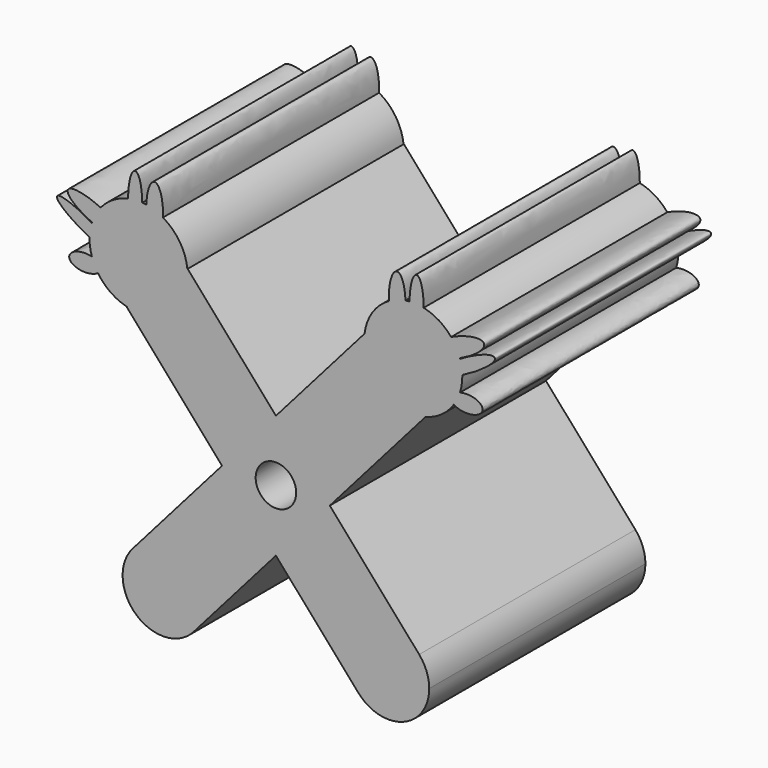
from build123d import *

# Parameters (mm, degrees)
F1_DEPTH = 25.4
F2_R     = 1.905
F3_DEPTH = 25.4


with BuildPart() as f1:
    # F0 (on Front) → F1 (new body)
    with BuildSketch(Plane.XZ):
        with BuildLine():
            Line((0, 5.7491731517), (-8.2944697503, 15.2146270099))
            Line((-8.2944697503, 15.2146270099), (-8.3231978396, 15.1894529114))
            ThreePointArc((-8.3231978396, 15.1894529114), (-8.3035295288, 14.94423904), (-8.2969671988, 14.6983251912))
            ThreePointArc((-8.2969671988, 14.6983251912), (-10.0583188378, 11.0733391142), (-13.9967146278, 10.2178145639))
            Line((-13.9967146278, 10.2178145639), (-14.0254427171, 10.1926404654))
            Line((-14.0254427171, 10.1926404654), (-5.0658413794, -0.0318459217))
            Line((-5.0658413794, -0.0318459217), (0, 5.7491731517))
        make_face()
        with BuildLine():
            Line((8.2944697503, 15.2146270099), (0, 5.7491731517))
            Line((0, 5.7491731517), (5.0658413794, -0.0318459217))
            Line((5.0658413794, -0.0318459217), (14.0254427171, 10.1926404654))
            Line((14.0254427171, 10.1926404654), (13.9967146278, 10.2178145639))
            ThreePointArc((13.9967146278, 10.2178145639), (9.8690430435, 11.2304739572), (8.3231978396, 15.1894529114))
            Line((8.3231978396, 15.1894529114), (8.2944697503, 15.2146270099))
        make_face()
        Polygon((5.0658413794, -0.0318459217), (0, 5.7491731517), (-5.0658413794, -0.0318459217), (0, -5.8128649951), align=None)
        with BuildLine():
            ThreePointArc((-8.2969671988, 14.6983251912), (-8.3035295288, 14.94423904), (-8.3231978396, 15.1894529114))
            Line((-8.3231978396, 15.1894529114), (-11.1599562337, 12.7036337377))
            Line((-11.1599562337, 12.7036337377), (-13.9967146278, 10.2178145639))
            ThreePointArc((-13.9967146278, 10.2178145639), (-10.0583188378, 11.0733391142), (-8.2969671988, 14.6983251912))
        make_face()
        with BuildLine():
            Line((-11.1599562337, 12.7036337377), (-8.3231978396, 15.1894529114))
            ThreePointArc((-8.3231978396, 15.1894529114), (-9.0496447277, 17.2231103335), (-10.6223940399, 18.7029573502))
            add(Edge.make_bspline(
                [(-11.397036872, 16.7108965981), (-10.7234744769, 16.7108965981), (-10.6223940399, 18.7029573502)],
                knots=[0, 0, 0, 1.4201588617, 1.4201588617, 1.4201588617], degree=2, weights=[1, 0.7583100979, 1]))
            add(Edge.make_bspline(
                [(-12.1777972418, 19.2510726344), (-12.2492001468, 16.7108965981), (-11.397036872, 16.7108965981)],
                knots=[4.6285004545, 4.6285004545, 4.6285004545, 6.2831853072, 6.2831853072, 6.2831853072], degree=2, weights=[1, 0.6768344815, 1]))
            ThreePointArc((-12.1777972418, 19.2510726344), (-12.3722941564, 19.2780280838), (-12.5677623507, 19.2966783129))
            add(Edge.make_bspline(
                [(-13.2275939538, 16.8863658989), (-12.568162614, 16.8863658989), (-12.5677623507, 19.2966783129)],
                knots=[0, 0, 0, 1.5701893442, 1.5701893442, 1.5701893442], degree=2, weights=[1, 0.7073213494, 1]))
            add(Edge.make_bspline(
                [(-13.8869238704, 19.2041002692), (-13.8621795895, 16.8863658989), (-13.2275939538, 16.8863658989)],
                knots=[4.751391684, 4.751391684, 4.751391684, 6.2831853072, 6.2831853072, 6.2831853072], degree=2, weights=[1, 0.7207609922, 1]))
            ThreePointArc((-13.8869238704, 19.2041002692), (-15.3105630335, 18.6337610065), (-16.4683955259, 17.6280476969))
            add(Edge.make_bspline(
                [(-14.3421338871, 15.7459191978), (-14.0127760713, 16.4781937118), (-16.4683955259, 17.6280476969)],
                knots=[0, 0, 0, 1.5192282947, 1.5192282947, 1.5192282947], degree=2, weights=[1, 0.7251017789, 1]))
            add(Edge.make_bspline(
                [(-17.2865569965, 16.1432249544), (-14.6876888139, 14.9776329939), (-14.3421338871, 15.7459191978)],
                knots=[4.7159730132, 4.7159730132, 4.7159730132, 6.2831853072, 6.2831853072, 6.2831853072], degree=2, weights=[1, 0.7083727921, 1]))
            ThreePointArc((-17.2865569965, 16.1432249544), (-17.2954576321, 16.1159676419), (-17.3041885923, 16.0886555067))
            add(Edge.make_bspline(
                [(-15.3071302921, 14.2545606941), (-15.039718366, 14.7264631696), (-17.3041885923, 16.0886555067)],
                knots=[0, 0, 0, 1.4437537951, 1.4437537951, 1.4437537951], degree=2, weights=[1, 0.7505668082, 1]))
            add(Edge.make_bspline(
                [(-17.5170477979, 14.8252919707), (-15.5370704354, 13.8487847646), (-15.3071302921, 14.2545606941)],
                knots=[4.9872193392, 4.9872193392, 4.9872193392, 6.2831853072, 6.2831853072, 6.2831853072], degree=2, weights=[1, 0.797302849, 1]))
            ThreePointArc((-17.5170477979, 14.8252919707), (-17.4737215217, 14.0551771502), (-17.3026249434, 13.303060162))
            add(Edge.make_bspline(
                [(-16.4475776255, 12.5877521932), (-16.4475776255, 13.0891369536), (-17.3026249434, 13.303060162)],
                knots=[0, 0, 0, 1.1299945247, 1.1299945247, 1.1299945247], degree=2, weights=[1, 0.8445900662, 1]))
            add(Edge.make_bspline(
                [(-16.7324533518, 12.1228282782), (-16.4475776255, 12.3307436247), (-16.4475776255, 12.5877521932)],
                knots=[5.6548075128, 5.6548075128, 5.6548075128, 6.2831853072, 6.2831853072, 6.2831853072], degree=2, weights=[1, 0.9510473591, 1]))
            ThreePointArc((-16.7324533518, 12.1228282782), (-15.542773625, 10.9144281004), (-13.9967146278, 10.2178145639))
            Line((-13.9967146278, 10.2178145639), (-11.1599562337, 12.7036337377))
        make_face()
        with BuildLine():
            Line((13.4674719425, -9.6195891799), (5.0658413794, -0.0318459217))
            Line((5.0658413794, -0.0318459217), (0, -5.8128649951))
            Line((0, -5.8128649951), (7.7364989756, -14.6415757244))
            ThreePointArc((7.7364989756, -14.6415757244), (8.0909921868, -9.2650959687), (13.4674719425, -9.6195891799))
        make_face()
        with BuildLine():
            Line((0, -5.8128649951), (-5.0658413794, -0.0318459217))
            Line((-5.0658413794, -0.0318459217), (-13.4674719425, -9.6195891799))
            ThreePointArc((-13.4674719425, -9.6195891799), (-9.2606062252, -8.5645199525), (-6.791985459, -12.1305824521))
            ThreePointArc((-6.791985459, -12.1305824521), (-7.0359229594, -13.471961686), (-7.7364989756, -14.6415757244))
            Line((-7.7364989756, -14.6415757244), (0, -5.8128649951))
        make_face()
        with BuildLine():
            add(Edge.make_bspline(
                [(-11.397036872, 16.7108965981), (-10.7234744769, 16.7108965981), (-10.6223940399, 18.7029573502)],
                knots=[0, 0, 0, 1.4201588617, 1.4201588617, 1.4201588617], degree=2, weights=[1, 0.7583100979, 1]))
            ThreePointArc((-10.6223940399, 18.7029573502), (-11.3753914419, 19.0471188394), (-12.1777972418, 19.2510726344))
            add(Edge.make_bspline(
                [(-12.1777972418, 19.2510726344), (-12.2492001468, 16.7108965981), (-11.397036872, 16.7108965981)],
                knots=[4.6285004545, 4.6285004545, 4.6285004545, 6.2831853072, 6.2831853072, 6.2831853072], degree=2, weights=[1, 0.6768344815, 1]))
        make_face()
        with BuildLine():
            ThreePointArc((-12.1777972418, 19.2510726344), (-11.3753914419, 19.0471188394), (-10.6223940399, 18.7029573502))
            add(Edge.make_bspline(
                [(-10.6223940399, 18.7029573502), (-10.5008219166, 21.0988616654), (-11.3053698951, 21.382379819), (-12.1099178736, 21.6658979726), (-12.1777972418, 19.2510726344)],
                knots=[1.4201588617, 1.4201588617, 1.4201588617, 3.0243296581, 3.0243296581, 4.6285004545, 4.6285004545, 4.6285004545], degree=2, weights=[1, 0.6952092224, 1, 0.6952092224, 1]))
        make_face()
        with BuildLine():
            ThreePointArc((14.411985459, -12.1305824521), (14.1680479586, -10.7892032183), (13.4674719425, -9.6195891799))
            Line((13.4674719425, -9.6195891799), (7.7364989756, -14.6415757244))
            ThreePointArc((7.7364989756, -14.6415757244), (11.9433646929, -15.6966449517), (14.411985459, -12.1305824521))
        make_face()
        with BuildLine():
            Line((7.7364989756, -14.6415757244), (13.4674719425, -9.6195891799))
            ThreePointArc((13.4674719425, -9.6195891799), (8.0909921868, -9.2650959687), (7.7364989756, -14.6415757244))
        make_face()
        with BuildLine():
            Line((13.9967146278, 10.2178145639), (8.3231978396, 15.1894529114))
            ThreePointArc((8.3231978396, 15.1894529114), (9.8690430435, 11.2304739572), (13.9967146278, 10.2178145639))
        make_face()
        with BuildLine():
            ThreePointArc((10.6223940399, 18.7029573502), (9.0496447277, 17.2231103335), (8.3231978396, 15.1894529114))
            Line((8.3231978396, 15.1894529114), (13.9967146278, 10.2178145639))
            ThreePointArc((13.9967146278, 10.2178145639), (15.542773625, 10.9144281004), (16.7324533518, 12.1228282782))
            add(Edge.make_bspline(
                [(16.4475776255, 12.5877521932), (16.4475776255, 12.3307436247), (16.7324533518, 12.1228282782)],
                knots=[0, 0, 0, 0.6283777944, 0.6283777944, 0.6283777944], degree=2, weights=[1, 0.9510473591, 1]))
            add(Edge.make_bspline(
                [(17.3026249434, 13.303060162), (16.4475776255, 13.0891369536), (16.4475776255, 12.5877521932)],
                knots=[5.1531907825, 5.1531907825, 5.1531907825, 6.2831853072, 6.2831853072, 6.2831853072], degree=2, weights=[1, 0.8445900662, 1]))
            ThreePointArc((17.3026249434, 13.303060162), (17.4644329232, 13.9923693638), (17.5187962168, 14.6983251912))
            ThreePointArc((17.5187962168, 14.6983251912), (17.5183590913, 14.7618145999), (17.5170477979, 14.8252919707))
            add(Edge.make_bspline(
                [(15.3071302921, 14.2545606941), (15.5370704354, 13.8487847646), (17.5170477979, 14.8252919707)],
                knots=[0, 0, 0, 1.295965968, 1.295965968, 1.295965968], degree=2, weights=[1, 0.797302849, 1]))
            add(Edge.make_bspline(
                [(17.3041885923, 16.0886555067), (15.039718366, 14.7264631696), (15.3071302921, 14.2545606941)],
                knots=[4.839431512, 4.839431512, 4.839431512, 6.2831853072, 6.2831853072, 6.2831853072], degree=2, weights=[1, 0.7505668082, 1]))
            ThreePointArc((17.3041885923, 16.0886555067), (17.2954576321, 16.1159676419), (17.2865569965, 16.1432249544))
            add(Edge.make_bspline(
                [(14.3421338871, 15.7459191978), (14.6876888139, 14.9776329939), (17.2865569965, 16.1432249544)],
                knots=[0, 0, 0, 1.567212294, 1.567212294, 1.567212294], degree=2, weights=[1, 0.7083727921, 1]))
            add(Edge.make_bspline(
                [(16.4683955259, 17.6280476969), (14.0127760713, 16.4781937118), (14.3421338871, 15.7459191978)],
                knots=[4.7639570125, 4.7639570125, 4.7639570125, 6.2831853072, 6.2831853072, 6.2831853072], degree=2, weights=[1, 0.7251017789, 1]))
            ThreePointArc((16.4683955259, 17.6280476969), (15.3105630335, 18.6337610065), (13.8869238704, 19.2041002692))
            add(Edge.make_bspline(
                [(13.2275939538, 16.8863658989), (13.8621795895, 16.8863658989), (13.8869238704, 19.2041002692)],
                knots=[0, 0, 0, 1.5317936232, 1.5317936232, 1.5317936232], degree=2, weights=[1, 0.7207609922, 1]))
            add(Edge.make_bspline(
                [(12.5677623507, 19.2966783129), (12.568162614, 16.8863658989), (13.2275939538, 16.8863658989)],
                knots=[4.7129959629, 4.7129959629, 4.7129959629, 6.2831853072, 6.2831853072, 6.2831853072], degree=2, weights=[1, 0.7073213494, 1]))
            ThreePointArc((12.5677623507, 19.2966783129), (12.3722941564, 19.2780280838), (12.1777972418, 19.2510726344))
            add(Edge.make_bspline(
                [(11.397036872, 16.7108965981), (12.2492001468, 16.7108965981), (12.1777972418, 19.2510726344)],
                knots=[0, 0, 0, 1.6546848527, 1.6546848527, 1.6546848527], degree=2, weights=[1, 0.6768344815, 1]))
            add(Edge.make_bspline(
                [(10.6223940399, 18.7029573502), (10.7234744769, 16.7108965981), (11.397036872, 16.7108965981)],
                knots=[4.8630264455, 4.8630264455, 4.8630264455, 6.2831853072, 6.2831853072, 6.2831853072], degree=2, weights=[1, 0.7583100979, 1]))
        make_face()
        with BuildLine():
            ThreePointArc((-6.791985459, -12.1305824521), (-9.2606062252, -8.5645199525), (-13.4674719425, -9.6195891799))
            Line((-13.4674719425, -9.6195891799), (-7.7364989756, -14.6415757244))
            ThreePointArc((-7.7364989756, -14.6415757244), (-7.0359229594, -13.471961686), (-6.791985459, -12.1305824521))
        make_face()
        with BuildLine():
            Line((-7.7364989756, -14.6415757244), (-13.4674719425, -9.6195891799))
            ThreePointArc((-13.4674719425, -9.6195891799), (-13.1129787313, -14.9960689356), (-7.7364989756, -14.6415757244))
        make_face()
        with BuildLine():
            ThreePointArc((12.1777972418, 19.2510726344), (11.3753914419, 19.0471188394), (10.6223940399, 18.7029573502))
            add(Edge.make_bspline(
                [(10.6223940399, 18.7029573502), (10.7234744769, 16.7108965981), (11.397036872, 16.7108965981)],
                knots=[4.8630264455, 4.8630264455, 4.8630264455, 6.2831853072, 6.2831853072, 6.2831853072], degree=2, weights=[1, 0.7583100979, 1]))
            add(Edge.make_bspline(
                [(11.397036872, 16.7108965981), (12.2492001468, 16.7108965981), (12.1777972418, 19.2510726344)],
                knots=[0, 0, 0, 1.6546848527, 1.6546848527, 1.6546848527], degree=2, weights=[1, 0.6768344815, 1]))
        make_face()
        with BuildLine():
            add(Edge.make_bspline(
                [(12.1777972418, 19.2510726344), (12.1099178736, 21.6658979726), (11.3053698951, 21.382379819), (10.5008219166, 21.0988616654), (10.6223940399, 18.7029573502)],
                knots=[1.6546848527, 1.6546848527, 1.6546848527, 3.2588556491, 3.2588556491, 4.8630264455, 4.8630264455, 4.8630264455], degree=2, weights=[1, 0.6952092224, 1, 0.6952092224, 1]))
            ThreePointArc((10.6223940399, 18.7029573502), (11.3753914419, 19.0471188394), (12.1777972418, 19.2510726344))
        make_face()
        with BuildLine():
            add(Edge.make_bspline(
                [(-17.3026249434, 13.303060162), (-20.1706770835, 14.020614504), (-19.3836295087, 12.3914582018), (-18.5965819339, 10.7623018997), (-16.7324533518, 12.1228282782)],
                knots=[1.1299945247, 1.1299945247, 1.1299945247, 3.3924010187, 3.3924010187, 5.6548075128, 5.6548075128, 5.6548075128], degree=2, weights=[1, 0.425571268, 1, 0.425571268, 1]))
            ThreePointArc((-16.7324533518, 12.1228282782), (-17.0596910841, 12.6925805635), (-17.3026249434, 13.303060162))
        make_face()
        with BuildLine():
            ThreePointArc((-17.3026249434, 13.303060162), (-17.0596910841, 12.6925805635), (-16.7324533518, 12.1228282782))
            add(Edge.make_bspline(
                [(-16.7324533518, 12.1228282782), (-16.4475776255, 12.3307436247), (-16.4475776255, 12.5877521932)],
                knots=[5.6548075128, 5.6548075128, 5.6548075128, 6.2831853072, 6.2831853072, 6.2831853072], degree=2, weights=[1, 0.9510473591, 1]))
            add(Edge.make_bspline(
                [(-16.4475776255, 12.5877521932), (-16.4475776255, 13.0891369536), (-17.3026249434, 13.303060162)],
                knots=[0, 0, 0, 1.1299945247, 1.1299945247, 1.1299945247], degree=2, weights=[1, 0.8445900662, 1]))
        make_face()
        with BuildLine():
            add(Edge.make_bspline(
                [(-13.2275939538, 16.8863658989), (-12.568162614, 16.8863658989), (-12.5677623507, 19.2966783129)],
                knots=[0, 0, 0, 1.5701893442, 1.5701893442, 1.5701893442], degree=2, weights=[1, 0.7073213494, 1]))
            ThreePointArc((-12.5677623507, 19.2966783129), (-13.2306792626, 19.2979267335), (-13.8869238704, 19.2041002692))
            add(Edge.make_bspline(
                [(-13.8869238704, 19.2041002692), (-13.8621795895, 16.8863658989), (-13.2275939538, 16.8863658989)],
                knots=[4.751391684, 4.751391684, 4.751391684, 6.2831853072, 6.2831853072, 6.2831853072], degree=2, weights=[1, 0.7207609922, 1]))
        make_face()
        with BuildLine():
            ThreePointArc((-13.8869238704, 19.2041002692), (-13.2306792626, 19.2979267335), (-12.5677623507, 19.2966783129))
            add(Edge.make_bspline(
                [(-12.5677623507, 19.2966783129), (-12.5673538328, 21.7566983424), (-13.2402605331, 21.7094741132), (-13.9131672333, 21.662249884), (-13.8869238704, 19.2041002692)],
                knots=[1.5701893442, 1.5701893442, 1.5701893442, 3.1607905141, 3.1607905141, 4.751391684, 4.751391684, 4.751391684], degree=2, weights=[1, 0.7000701578, 1, 0.7000701578, 1]))
        make_face()
        with BuildLine():
            add(Edge.make_bspline(
                [(16.4475776255, 12.5877521932), (16.4475776255, 12.3307436247), (16.7324533518, 12.1228282782)],
                knots=[0, 0, 0, 0.6283777944, 0.6283777944, 0.6283777944], degree=2, weights=[1, 0.9510473591, 1]))
            ThreePointArc((16.7324533518, 12.1228282782), (17.0596910841, 12.6925805635), (17.3026249434, 13.303060162))
            add(Edge.make_bspline(
                [(17.3026249434, 13.303060162), (16.4475776255, 13.0891369536), (16.4475776255, 12.5877521932)],
                knots=[5.1531907825, 5.1531907825, 5.1531907825, 6.2831853072, 6.2831853072, 6.2831853072], degree=2, weights=[1, 0.8445900662, 1]))
        make_face()
        with BuildLine():
            ThreePointArc((17.3026249434, 13.303060162), (17.0596910841, 12.6925805635), (16.7324533518, 12.1228282782))
            add(Edge.make_bspline(
                [(16.7324533518, 12.1228282782), (18.5965819339, 10.7623018997), (19.3836295087, 12.3914582018), (20.1706770835, 14.020614504), (17.3026249434, 13.303060162)],
                knots=[0.6283777944, 0.6283777944, 0.6283777944, 2.8907842884, 2.8907842884, 5.1531907825, 5.1531907825, 5.1531907825], degree=2, weights=[1, 0.425571268, 1, 0.425571268, 1]))
        make_face()
        with BuildLine():
            ThreePointArc((13.8869238704, 19.2041002692), (13.2306792626, 19.2979267335), (12.5677623507, 19.2966783129))
            add(Edge.make_bspline(
                [(12.5677623507, 19.2966783129), (12.568162614, 16.8863658989), (13.2275939538, 16.8863658989)],
                knots=[4.7129959629, 4.7129959629, 4.7129959629, 6.2831853072, 6.2831853072, 6.2831853072], degree=2, weights=[1, 0.7073213494, 1]))
            add(Edge.make_bspline(
                [(13.2275939538, 16.8863658989), (13.8621795895, 16.8863658989), (13.8869238704, 19.2041002692)],
                knots=[0, 0, 0, 1.5317936232, 1.5317936232, 1.5317936232], degree=2, weights=[1, 0.7207609922, 1]))
        make_face()
        with BuildLine():
            add(Edge.make_bspline(
                [(13.8869238704, 19.2041002692), (13.9131672333, 21.662249884), (13.2402605331, 21.7094741132), (12.5673538328, 21.7566983424), (12.5677623507, 19.2966783129)],
                knots=[1.5317936232, 1.5317936232, 1.5317936232, 3.1223947931, 3.1223947931, 4.7129959629, 4.7129959629, 4.7129959629], degree=2, weights=[1, 0.7000701578, 1, 0.7000701578, 1]))
            ThreePointArc((12.5677623507, 19.2966783129), (13.2306792626, 19.2979267335), (13.8869238704, 19.2041002692))
        make_face()
        with BuildLine():
            add(Edge.make_bspline(
                [(-17.3041885923, 16.0886555067), (-20.4530121178, 17.9828306773), (-20.5859804801, 17.1936358673), (-20.7189488423, 16.4044410572), (-17.5170477979, 14.8252919707)],
                knots=[1.4437537951, 1.4437537951, 1.4437537951, 3.2154865672, 3.2154865672, 4.9872193392, 4.9872193392, 4.9872193392], degree=2, weights=[1, 0.6326187548, 1, 0.6326187548, 1]))
            ThreePointArc((-17.5170477979, 14.8252919707), (-17.4547111229, 15.4644027845), (-17.3041885923, 16.0886555067))
        make_face()
        with BuildLine():
            ThreePointArc((-17.3041885923, 16.0886555067), (-17.4547111229, 15.4644027845), (-17.5170477979, 14.8252919707))
            add(Edge.make_bspline(
                [(-17.5170477979, 14.8252919707), (-15.5370704354, 13.8487847646), (-15.3071302921, 14.2545606941)],
                knots=[4.9872193392, 4.9872193392, 4.9872193392, 6.2831853072, 6.2831853072, 6.2831853072], degree=2, weights=[1, 0.797302849, 1]))
            add(Edge.make_bspline(
                [(-15.3071302921, 14.2545606941), (-15.039718366, 14.7264631696), (-17.3041885923, 16.0886555067)],
                knots=[0, 0, 0, 1.4437537951, 1.4437537951, 1.4437537951], degree=2, weights=[1, 0.7505668082, 1]))
        make_face()
        with BuildLine():
            add(Edge.make_bspline(
                [(-14.3421338871, 15.7459191978), (-14.0127760713, 16.4781937118), (-16.4683955259, 17.6280476969)],
                knots=[0, 0, 0, 1.5192282947, 1.5192282947, 1.5192282947], degree=2, weights=[1, 0.7251017789, 1]))
            ThreePointArc((-16.4683955259, 17.6280476969), (-16.9463041179, 16.9235615937), (-17.2865569965, 16.1432249544))
            add(Edge.make_bspline(
                [(-17.2865569965, 16.1432249544), (-14.6876888139, 14.9776329939), (-14.3421338871, 15.7459191978)],
                knots=[4.7159730132, 4.7159730132, 4.7159730132, 6.2831853072, 6.2831853072, 6.2831853072], degree=2, weights=[1, 0.7083727921, 1]))
        make_face()
        with BuildLine():
            ThreePointArc((-17.2865569965, 16.1432249544), (-16.9463041179, 16.9235615937), (-16.4683955259, 17.6280476969))
            add(Edge.make_bspline(
                [(-16.4683955259, 17.6280476969), (-19.1263304686, 18.8726367476), (-19.5470104176, 18.1091747929), (-19.9676903666, 17.3457128382), (-17.2865569965, 16.1432249544)],
                knots=[1.5192282947, 1.5192282947, 1.5192282947, 3.117600654, 3.117600654, 4.7159730132, 4.7159730132, 4.7159730132], degree=2, weights=[1, 0.6972902776, 1, 0.6972902776, 1]))
        make_face()
        with BuildLine():
            add(Edge.make_bspline(
                [(15.3071302921, 14.2545606941), (15.5370704354, 13.8487847646), (17.5170477979, 14.8252919707)],
                knots=[0, 0, 0, 1.295965968, 1.295965968, 1.295965968], degree=2, weights=[1, 0.797302849, 1]))
            ThreePointArc((17.5170477979, 14.8252919707), (17.4547111229, 15.4644027845), (17.3041885923, 16.0886555067))
            add(Edge.make_bspline(
                [(17.3041885923, 16.0886555067), (15.039718366, 14.7264631696), (15.3071302921, 14.2545606941)],
                knots=[4.839431512, 4.839431512, 4.839431512, 6.2831853072, 6.2831853072, 6.2831853072], degree=2, weights=[1, 0.7505668082, 1]))
        make_face()
        with BuildLine():
            ThreePointArc((17.3041885923, 16.0886555067), (17.4547111229, 15.4644027845), (17.5170477979, 14.8252919707))
            add(Edge.make_bspline(
                [(17.5170477979, 14.8252919707), (20.7189488423, 16.4044410572), (20.5859804801, 17.1936358673), (20.4530121178, 17.9828306773), (17.3041885923, 16.0886555067)],
                knots=[1.295965968, 1.295965968, 1.295965968, 3.06769874, 3.06769874, 4.839431512, 4.839431512, 4.839431512], degree=2, weights=[1, 0.6326187548, 1, 0.6326187548, 1]))
        make_face()
        with BuildLine():
            add(Edge.make_bspline(
                [(17.2865569965, 16.1432249544), (19.9676903666, 17.3457128382), (19.5470104176, 18.1091747929), (19.1263304686, 18.8726367476), (16.4683955259, 17.6280476969)],
                knots=[1.567212294, 1.567212294, 1.567212294, 3.1655846532, 3.1655846532, 4.7639570125, 4.7639570125, 4.7639570125], degree=2, weights=[1, 0.6972902776, 1, 0.6972902776, 1]))
            ThreePointArc((16.4683955259, 17.6280476969), (16.9463041179, 16.9235615937), (17.2865569965, 16.1432249544))
        make_face()
        with BuildLine():
            ThreePointArc((17.2865569965, 16.1432249544), (16.9463041179, 16.9235615937), (16.4683955259, 17.6280476969))
            add(Edge.make_bspline(
                [(16.4683955259, 17.6280476969), (14.0127760713, 16.4781937118), (14.3421338871, 15.7459191978)],
                knots=[4.7639570125, 4.7639570125, 4.7639570125, 6.2831853072, 6.2831853072, 6.2831853072], degree=2, weights=[1, 0.7251017789, 1]))
            add(Edge.make_bspline(
                [(14.3421338871, 15.7459191978), (14.6876888139, 14.9776329939), (17.2865569965, 16.1432249544)],
                knots=[0, 0, 0, 1.567212294, 1.567212294, 1.567212294], degree=2, weights=[1, 0.7083727921, 1]))
        make_face()
    extrude(amount=F1_DEPTH)

    # F2 (on face) → F3 (cut)
    with BuildSketch(Plane(origin=(0, 0, 0), x_dir=(-1, 0, 0), z_dir=(0, 1, 0))):
        Circle(F2_R)
    extrude(amount=-F3_DEPTH, mode=Mode.SUBTRACT)


solid = f1.part
